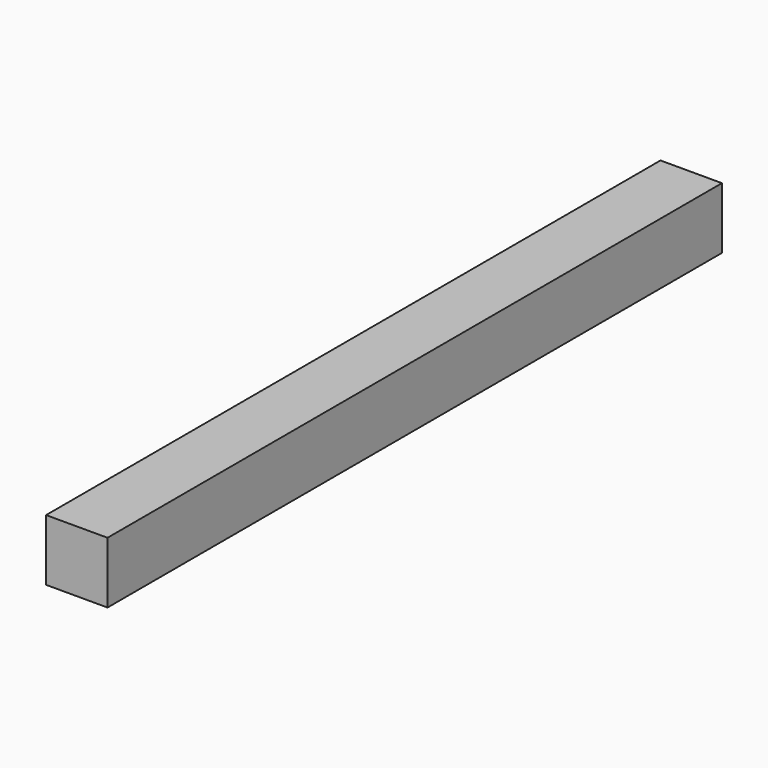
from build123d import *

# Parameters (mm, degrees)
F0_W     = 80
F0_H     = 80
F1_DEPTH = 1000
F2_DEPTH = 1000


with BuildPart() as f1:
    # F0 (on Front) → F1 (new body)
    with BuildSketch(Plane.XZ):
        with Locations((47.503748, 38.90726)):
            Rectangle(F0_W, F0_H)
    extrude(amount=F1_DEPTH)

    # F0 (on Front) → F2 (join)
    with BuildSketch(Plane.XZ):
        with Locations((47.503748, 38.90726)):
            Rectangle(F0_W, F0_H)
    extrude(amount=F2_DEPTH)


solid = f1.part
